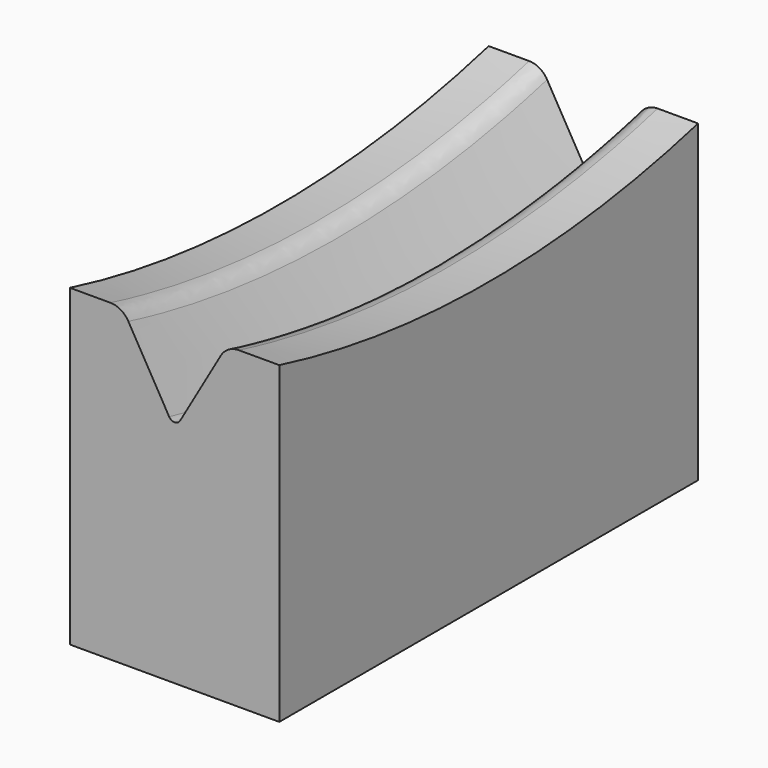
from build123d import *

# Parameters (mm, degrees)
F0_W     = 50.8
F0_H     = 76.2
F1_DEPTH = 127
F5_R     = 5.08


with BuildPart() as f1:
    # F0 (on Front) → F1 (new body)
    with BuildSketch(Plane.XZ):
        with Locations((0, -38.1)):
            Rectangle(F0_W, F0_H)
    extrude(amount=-F1_DEPTH)

    # F4: sweep along a path in F2
    with BuildLine(Plane.YZ) as f4_path:
        CenterArc((63.5, 245.9344424842), 254, 0, 360)
    # F3 (on Front) → F4 (sweep, cut)
    with BuildSketch(Plane.XZ):
        with BuildLine():
            Line((1.3198227154, -19.7110452561), (12.7, 0))
            Line((12.7, 0), (43.4110164642, 0))
            Line((43.4110164642, 0), (43.4110164642, 26.4454465359))
            Line((43.4110164642, 26.4454465359), (-29.6869948506, 26.4454465359))
            Line((-29.6869948506, 26.4454465359), (-29.6869948506, 0))
            Line((-29.6869948506, 0), (-12.7, 0))
            Line((-12.7, 0), (-1.3198227154, -19.7110452561))
            ThreePointArc((-1.3198227154, -19.7110452561), (0, -20.4730452561), (1.3198227154, -19.7110452561))
        make_face()
    sweep(path=f4_path.line, mode=Mode.SUBTRACT)

    # F5
    f5_edges = [f1.edges().sort_by_distance(p)[0] for p in [
        (-12.7, 63.5, -8.065558),
        (12.7, 63.5, -8.065558),
    ]]
    fillet(f5_edges, radius=F5_R)


solid = f1.part
